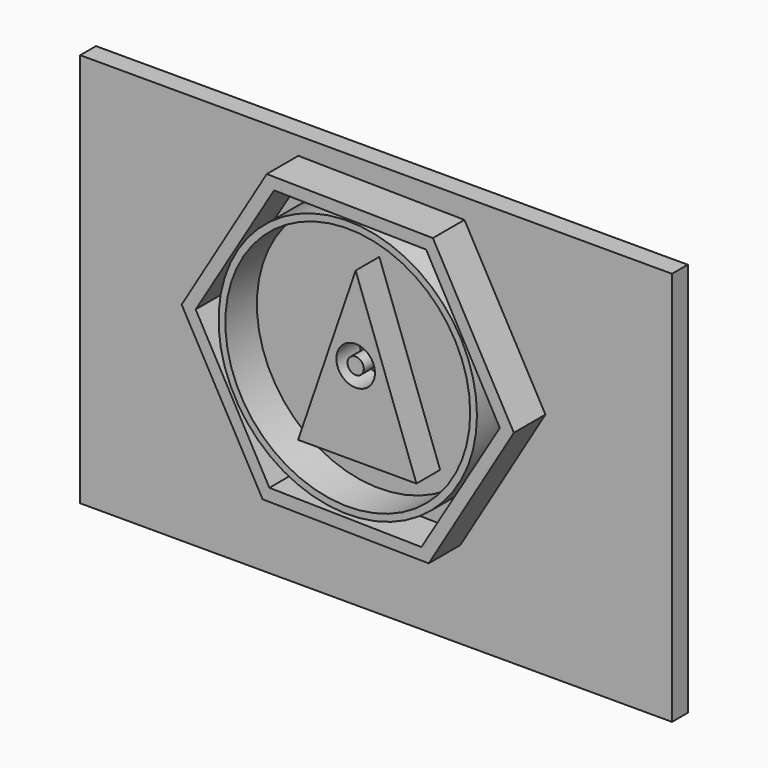
from build123d import *

# Parameters (mm, degrees)
F0_W     = 150
F0_H     = 100
F1_DEPTH = 5
F2_R     = 4.890759
F2_R_2   = 2.063012
F3_DEPTH = 7.5
F5_DEPTH = 10
F6_R     = 32.750656
F6_R_2   = 31.034289
F7_DEPTH = 10


with BuildPart() as f1:
    # F0 (on Front) → F1 (new body)
    with BuildSketch(Plane.XZ):
        with Locations((-0.814352, 12.874251)):
            Rectangle(F0_W, F0_H)
    extrude(amount=F1_DEPTH)

    # F2 (on face) → F3 (join)
    with BuildSketch(Plane.XZ.offset(5)):
        Polygon((0, 42.534135), (-14.594158, 0), (15.405842, 0), align=None)
        with Locations((0, 21.267068)):
            Circle(F2_R, mode=Mode.SUBTRACT)
        with Locations((0, 21.267068)):
            Circle(F2_R_2)
    extrude(amount=F3_DEPTH)

    # F4 (on face) → F5 (join)
    with BuildSketch(Plane.XZ.offset(5)):
        Polygon((-20.528079, 58.401592), (-42.103289, 22.241354), (-21.57521, -14.523444), (20.528079, -15.128005), (42.103289, 21.032233), (21.57521, 57.797031), align=None)
        Polygon((-19.871907, -11.400712), (-38.547273, 22.327617), (-18.675366, 55.365123), (19.871907, 54.674299), (38.547273, 20.94597), (18.675366, -12.091536), align=None, mode=Mode.SUBTRACT)
    extrude(amount=F5_DEPTH)

    # F6 (on face) → F7 (join)
    with BuildSketch(Plane.XZ.offset(5)):
        with Locations((0, 21.882644)):
            Circle(F6_R)
        with Locations((0, 21.882644)):
            Circle(F6_R_2, mode=Mode.SUBTRACT)
    extrude(amount=F7_DEPTH)


solid = f1.part
